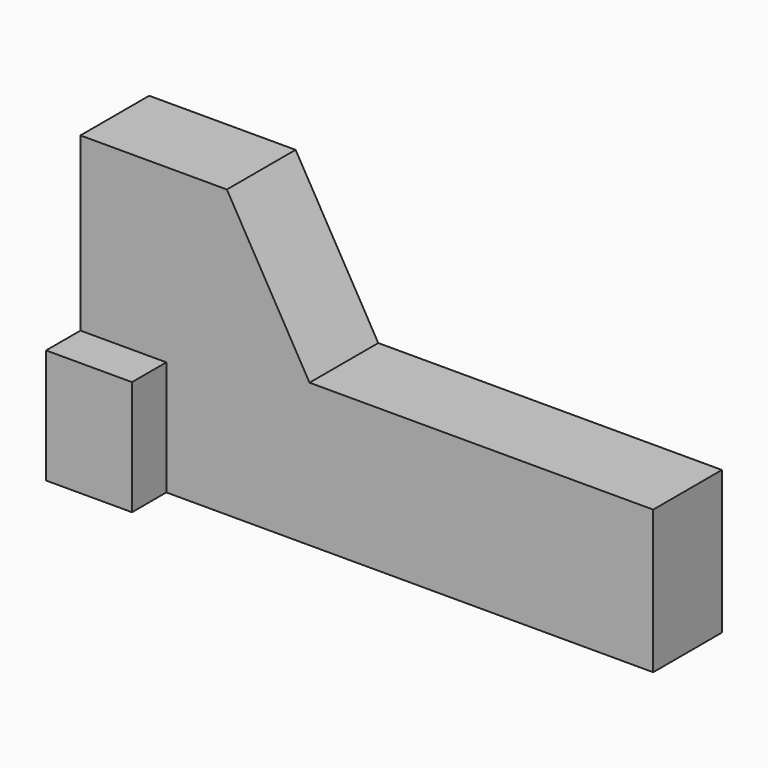
from build123d import *

# Parameters (mm, degrees)
F0_W          = 127
F0_H          = 63.5
F1_DEPTH      = 19.05
F2_W          = 76.2
F2_H          = 19.05
F3_DEPTH      = 31.75
F5_DEPTH      = 25.4
F6_W          = 19.05
F6_H          = 25.4
F7_DEPTH      = 9.525
F7_DEPTH_BACK = 28.575


with BuildPart() as f1:
    # F0 (on Front) → F1 (new body)
    with BuildSketch(Plane.XZ):
        with Locations((-10.576596, -10.934775)):
            Rectangle(F0_W, F0_H)
    extrude(amount=-F1_DEPTH)

    # F2 (on face) → F3 (cut)
    with BuildSketch(Plane.XY.offset(20.815225)):
        with Locations((14.823404, 9.525)):
            Rectangle(F2_W, F2_H)
    extrude(amount=-F3_DEPTH, mode=Mode.SUBTRACT)

    # F4 (on face) → F5 (cut)
    with BuildSketch(Plane.XZ):
        Polygon((-41.607468, 20.815225), (-23.276596, -10.934775), (-23.276596, 20.815225), align=None)
    extrude(amount=-F5_DEPTH, mode=Mode.SUBTRACT)

    # F6 (on face) → F7 (join, two sides)
    with BuildSketch(Plane.XZ) as f7_sk:
        with Locations((-64.551596, -29.984775)):
            Rectangle(F6_W, F6_H)
    extrude(amount=F7_DEPTH)
    extrude(f7_sk.sketch, amount=-F7_DEPTH_BACK)


solid = f1.part
